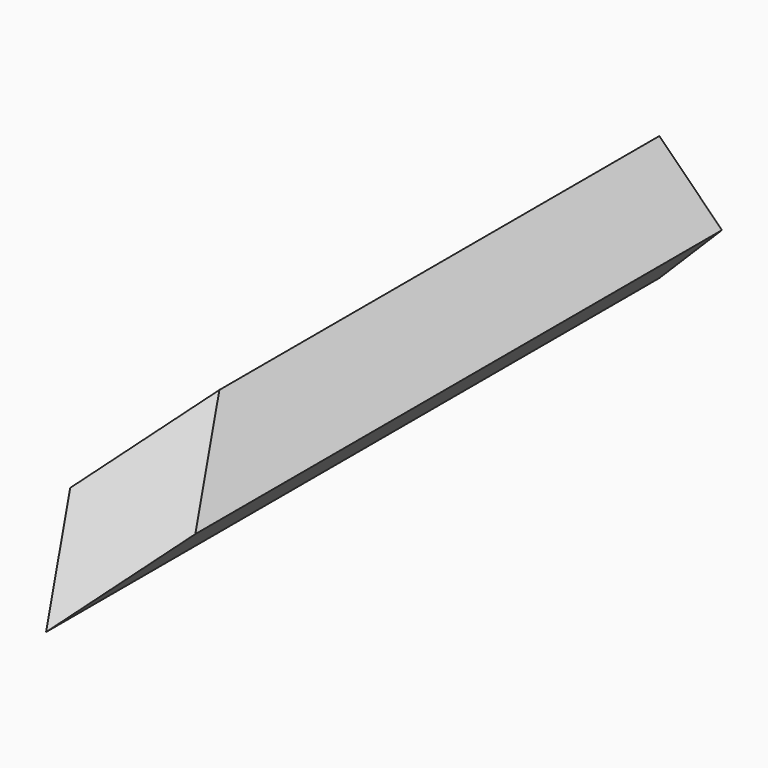
from build123d import *

# Parameters (mm, degrees)
F1_DEPTH = 130
F3_DEPTH = 12.5


with BuildPart() as f1:
    # F0 (on Front) → F1 (new body)
    with BuildSketch(Plane.XZ):
        Polygon((0, 10.606602), (-10.606602, 0), (0, -10.606602), (10.606602, 0), align=None)
    extrude(amount=F1_DEPTH)

    # F2 (on Right) → F3 (cut, symmetric)
    with BuildSketch(Plane.YZ):
        Polygon((-130, 10.815689), (-130, -10.600555), (-92.905977, 10.815689), align=None)
    extrude(amount=F3_DEPTH, both=True, mode=Mode.SUBTRACT)


solid = f1.part
